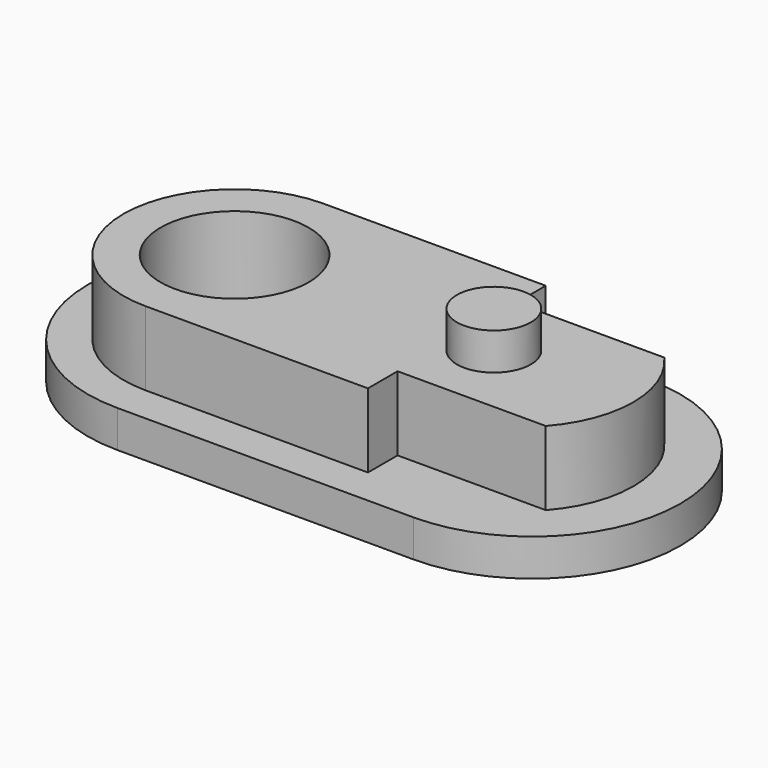
from build123d import *

# Parameters (mm, degrees)
F1_DEPTH = 12.7
F4_DEPTH = 6.35
F2_R     = 12.7
F5_DEPTH = 19.051
F2_R_2   = 6.35
F6_DEPTH = 6.35


with BuildPart() as f1:
    # F0 (on Top) → F1 (new body)
    with BuildSketch(Plane.XY):
        with BuildLine():
            Line((-38.1, -19.05), (0, -19.05))
            Line((0, -19.05), (0, -12.7))
            Line((0, -12.7), (25.4, -12.7))
            ThreePointArc((25.4, -12.7), (30.250968, 0), (25.4, 12.7))
            Line((25.4, 12.7), (0, 12.7))
            Line((0, 12.7), (0, 19.05))
            Line((0, 19.05), (-38.1, 19.05))
            ThreePointArc((-38.1, 19.05), (-57.15, 0), (-38.1, -19.05))
        make_face()
    extrude(amount=F1_DEPTH)

    # F3 (on face) → F4 (join)
    with BuildSketch(Plane(origin=(0, 0, 0), x_dir=(1, 0, 0), z_dir=(0, 0, -1))):
        with BuildLine():
            Line((12.91321, 25.4), (-37.88679, 25.4))
            ThreePointArc((-37.88679, 25.4), (-63.28679, 0), (-37.88679, -25.4))
            Line((-37.88679, -25.4), (12.91321, -25.4))
            ThreePointArc((12.91321, -25.4), (38.31321, 0), (12.91321, 25.4))
        make_face()
    extrude(amount=F4_DEPTH)

    # F2 (on face) → F5 (cut, through all)
    with BuildSketch(Plane.XY.offset(12.7)):
        with Locations((-38.1, 0)):
            Circle(F2_R)
    extrude(amount=-F5_DEPTH, mode=Mode.SUBTRACT)

    # F2 (on face) → F6 (join)
    with BuildSketch(Plane.XY.offset(12.7)):
        with Locations((6.35, 0)):
            Circle(F2_R_2)
    extrude(amount=F6_DEPTH)


solid = f1.part
